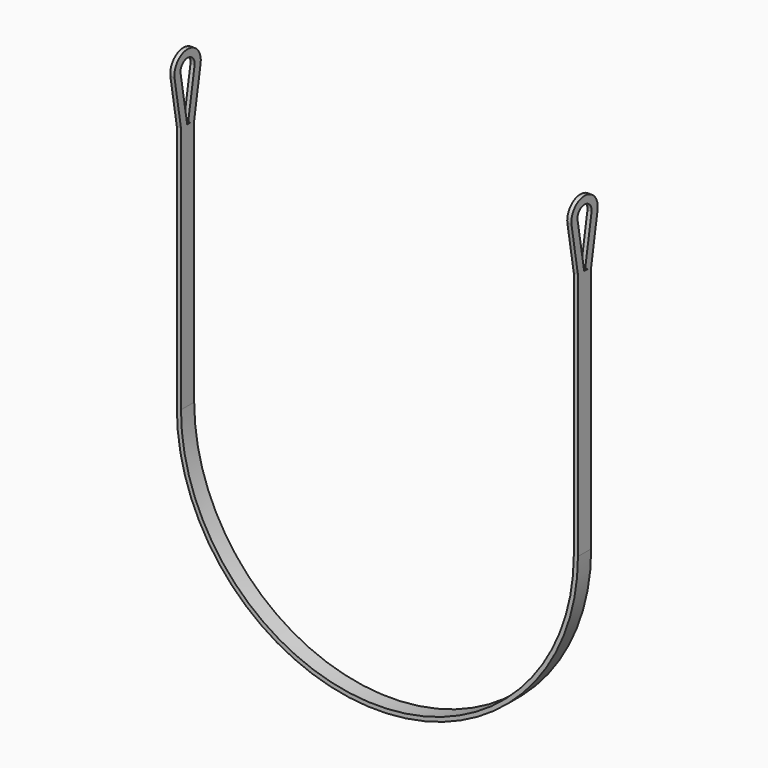
from build123d import *

# Parameters (mm, degrees)
F1_W = 12.7
F1_H = 50.8
F5_W = 12.7
F5_H = 23.8677083557


with BuildPart() as f2:
    # F2: sweep along a path in F0
    with BuildLine(Plane.XZ) as f2_path:
        Line((-609.6, 0), (-609.6, -762))
        ThreePointArc((-609.6, -762), (0, -1371.6), (609.6, -762))
        Line((609.6, -762), (609.6, 0))
    # F1 (on Top) → F2 (sweep)
    with BuildSketch(Plane.XY):
        with Locations((-609.6, 0)):
            Rectangle(F1_W, F1_H)
    sweep(path=f2_path.line)

    # F6: sweep along a path in F4
    with BuildLine(Plane.YZ.offset(609.6)) as f6_path:
        Line((-12.7, 0), (-37.5594649148, 146.0049554096))
        ThreePointArc((-37.5594649148, 146.0049554096), (0, 190.5), (37.5594649148, 146.0049554096))
        Line((37.5594649148, 146.0049554096), (12.7, 0))
    # F5 (on face) → F6 (sweep)
    with BuildSketch(Plane.XY):
        with Locations((609.6, -13.4661458221)):
            Rectangle(F5_W, F5_H)
    sweep(path=f6_path.line)

    # F7: F2 across plane


with BuildPart() as f2_1:
    add(f2.part)
    add(f2.part.mirror(Plane.YZ))


solid = f2_1.part
